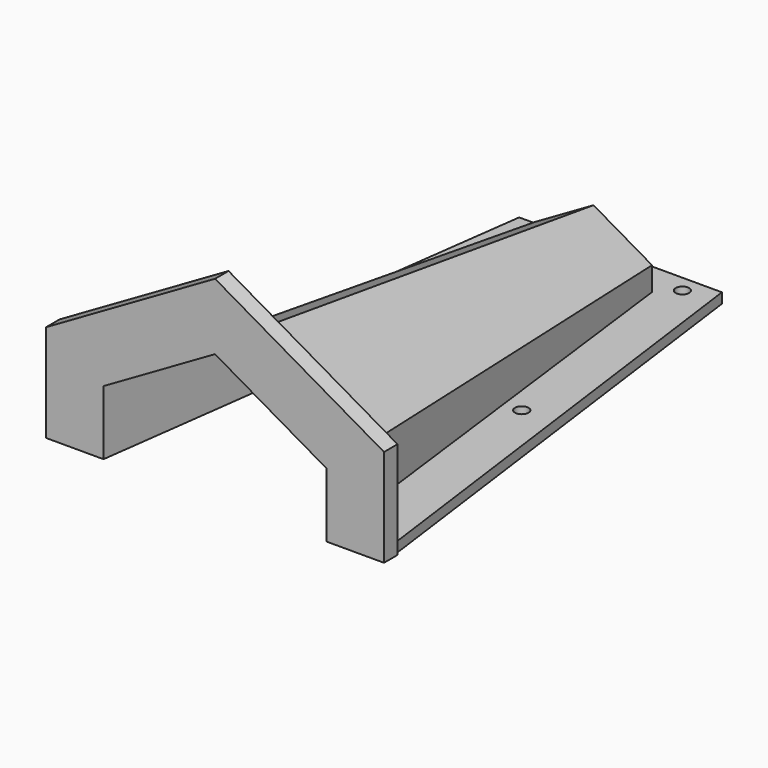
from build123d import *

# Parameters (mm, degrees)
EXTRUDE002_DEPTH = 5
FACE007_R        = 2
EXTRUDE001_DEPTH = 10
EXTRUDE_DEPTH    = 3


with BuildPart() as extrude002:
    # Sketch008 (on Face18 of Cut001) → Extrude002 (new body)
    with BuildSketch(Plane.XZ):
        Polygon((0, 0), (0, 28.867513), (50, 57.735027), (100, 28.867513), (100, 0), (83, 0), (83, 19.052559), (50, 38.105118), (17, 19.052559), (17, 0), align=None)
    extrude(amount=-EXTRUDE002_DEPTH)


with BuildPart() as extrude001:
    # Face007 → Extrude001 (new body)
    with BuildSketch(Plane(origin=(88, 15, 0), x_dir=(0, 1, 0), z_dir=(0, 0, 1))):
        Circle(FACE007_R)
        with Locations((0, 76)):
            Circle(FACE007_R)
        with Locations((60, 68.763311)):
            Circle(FACE007_R)
        with Locations((60, 7.236689)):
            Circle(FACE007_R)
        with Locations((130, 15.679492)):
            Circle(FACE007_R)
        with Locations((130, 40.949188)):
            Circle(FACE007_R)
        with Locations((130, 60.320508)):
            Circle(FACE007_R)
    extrude(amount=EXTRUDE001_DEPTH)


with BuildPart() as loft002:
    # Face006 → Loft002 section 0
    with BuildSketch(Plane(origin=(50, 125, 7.409328), x_dir=(1, 0, 0), z_dir=(0, 1, 0))):
        Polygon((-16.5, 7.409328), (-16.5, -2.116951), (0, -11.64323), (16.5, -2.116951), (16.5, 7.409328), align=None)
    # Face005 → Loft002 section 1
    with BuildSketch(Plane(origin=(50, 130, 0.224525), x_dir=(1, 0, 0), z_dir=(0, 1, 0))):
        Polygon((-0.5, 0.224525), (-0.5, -0.06415), (0, -0.352825), (0.5, -0.06415), (0.5, 0.224525), align=None)
    loft()


with BuildPart() as fusion001:
    # Face003 → Loft001 section 0
    with BuildSketch(Plane(origin=(50, 125, 7.409328), x_dir=(1, 0, 0), z_dir=(0, 1, 0))):
        Polygon((-16.5, 7.409328), (-16.5, -2.116951), (0, -11.64323), (16.5, -2.116951), (16.5, 7.409328), align=None)
    # Face004 → Loft001 section 1
    with BuildSketch(Plane(origin=(50, 0, 14.818657), x_dir=(1, 0, 0), z_dir=(0, 1, 0))):
        Polygon((-33, 14.818657), (-33, -4.233902), (0, -23.286461), (33, -4.233902), (33, 14.818657), align=None)
    loft()

    # Fusion001: union Loft002
    add(loft002.part)


with BuildPart() as loft_body:
    # Face001 → Loft section 0
    with BuildSketch(Plane(origin=(50, 0, 15.716757), x_dir=(1, 0, 0), z_dir=(0, 1, 0))):
        Polygon((35, 15.716757), (-35, 15.716757), (-35, -4.490502), (0, -24.697762), (35, -4.490502), align=None)
    # Face002 → Loft section 1
    with BuildSketch(Plane(origin=(50, 140, 7.777778), x_dir=(1, 0, 0), z_dir=(0, 1, 0))):
        Polygon((-17.320508, 7.777778), (-17.320508, -2.222222), (0, -12.222222), (17.320508, -2.222222), (17.320508, 7.777778), align=None)
    loft()


with BuildPart() as fusion002:
    # Face → Extrude (new body)
    with BuildSketch(Plane(origin=(50, 68.75, 0), x_dir=(0, 1, 0), z_dir=(0, 0, 1))):
        Polygon((-68.75, 50), (-68.75, -50), (81.25, -30), (81.25, 30), align=None)
    extrude(amount=EXTRUDE_DEPTH)

    # Fusion: union Loft body
    add(loft_body.part)

    # Cut: cut Fusion001
    add(fusion001.part, mode=Mode.SUBTRACT)

    # Cut001: cut Extrude001
    add(extrude001.part, mode=Mode.SUBTRACT)

    # Fusion002: union Extrude002
    add(extrude002.part)


solid = fusion002.part
